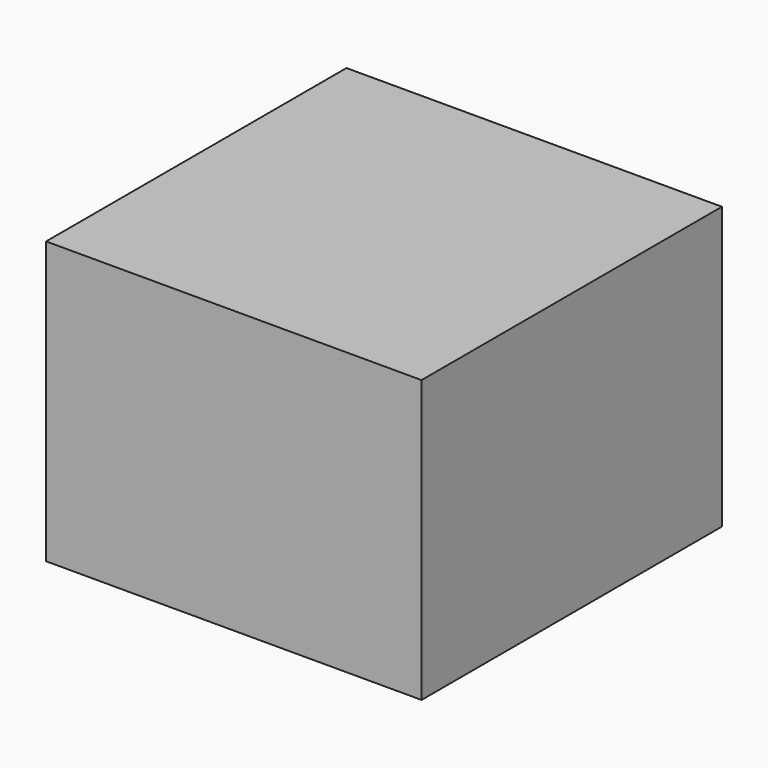
from build123d import *

# Parameters (mm, degrees)
F0_W          = 50.8
F0_H          = 50.8
F0_R          = 12.7
F1_DEPTH      = 25.4
F1_DEPTH_BACK = 12.7


with BuildPart() as f1:
    # F0 (on Top) → F1 (new body, two sides)
    with BuildSketch(Plane.XY) as f1_sk:
        Rectangle(F0_W, F0_H)
        Circle(F0_R, mode=Mode.SUBTRACT)
        Circle(F0_R)
    extrude(amount=F1_DEPTH)
    extrude(f1_sk.sketch, amount=-F1_DEPTH_BACK)


solid = f1.part
